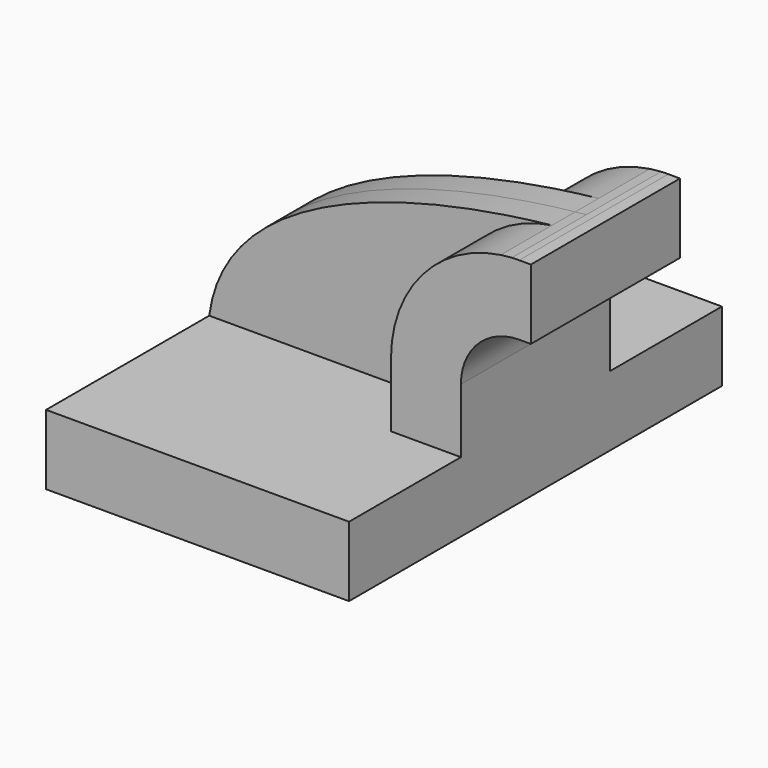
from build123d import *

# Parameters (mm, degrees)
F1_DEPTH = 63.5
F2_DEPTH = 25.4
F3_DEPTH = 7.9375


with BuildPart() as f1:
    # F0 (on Front) → F1 (new body, symmetric)
    with BuildSketch(Plane.XZ):
        Polygon((-41.275, 9.525), (-41.275, -9.525), (41.275, -9.525), (41.275, 9.525), (22.225, 9.525), align=None)
    extrude(amount=F1_DEPTH, both=True)

    # F0 (on Front) → F2 (join, symmetric)
    with BuildSketch(Plane.XZ):
        with BuildLine():
            Line((22.225, 9.525), (41.275, 9.525))
            Line((41.275, 9.525), (41.275, 27.0002))
            ThreePointArc((41.275, 27.0002), (45.9246798487, 38.2255201513), (57.15, 42.8752))
            Line((57.15, 42.8752), (60.325, 42.8752))
            Line((60.325, 42.8752), (60.325, 61.9252))
            Line((60.325, 61.9252), (57.15, 61.9252))
            ThreePointArc((57.15, 61.9252), (56.1396828134, 61.9105836155), (55.1302112781, 61.8667466962))
            add(Edge.make_bspline(
                [(52.1201627653, 61.5611080088), (53.4052318072, 61.69652188), (54.4228886403, 61.7953477122), (55.1302112781, 61.8667466962)],
                knots=[0.8216641419, 0.8216641419, 0.8216641419, 0.8216641419, 0.8804984928, 0.8804984928, 0.8804984928, 0.8804984928], degree=3))
            ThreePointArc((52.1201627653, 61.5611080088), (30.7357738101, 49.8484883339), (22.225, 27.0002))
            Line((22.225, 27.0002), (22.225, 9.525))
        make_face()
    extrude(amount=F2_DEPTH, both=True)

    # F0 (on Front) → F3 (join, symmetric)
    with BuildSketch(Plane.XZ):
        with BuildLine():
            add(Edge.make_bspline(
                [(-41.275, 9.525), (-35.930112491, 50.6426220419), (34.1732467865, 59.6699556353), (52.1201627653, 61.5611080088)],
                knots=[0, 0, 0, 0, 0.8216641419, 0.8216641419, 0.8216641419, 0.8216641419], degree=3))
            Line((-41.275, 9.525), (22.225, 9.525))
            Line((22.225, 9.525), (22.225, 27.0002))
            ThreePointArc((22.225, 27.0002), (30.7357738101, 49.8484883339), (52.1201627653, 61.5611080088))
        make_face()
    extrude(amount=F3_DEPTH, both=True)


solid = f1.part
